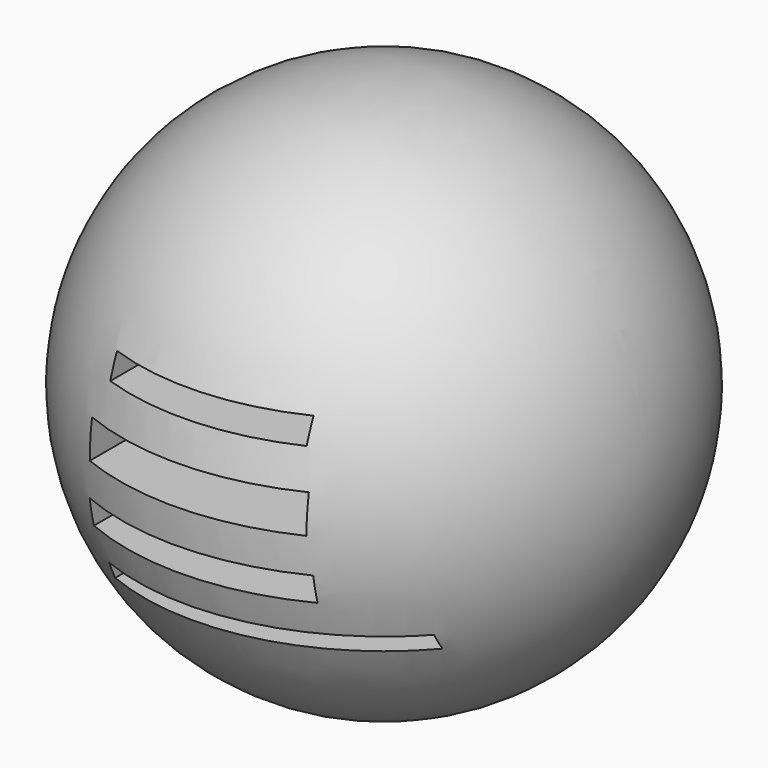
from build123d import *

# Parameters (mm, degrees)
F2_W      = 1.825324
F2_H      = 15.819468
F3_DEPTH  = 50.8
F4_W      = 2.966151
F4_H      = 21.295437
F5_DEPTH  = 50.8
F6_W      = 1.630356
F6_H      = 20.682175
F7_DEPTH  = 50.8
F8_W      = 1.825323
F8_H      = 19.774335
F9_DEPTH  = 50.8
F10_W     = 17.340573
F10_H     = 2.129544
F11_DEPTH = 50.8
F12_W     = 19.470113
F12_H     = 3.422481
F13_DEPTH = 50.8
F14_W     = 20.078553
F14_H     = 2.433764
F15_DEPTH = 50.8
F16_W     = 25.250305
F16_H     = 1.521244
F17_DEPTH = 50.8


with BuildPart() as f1:
    # F0 (on Front) → F1 (revolve)
    with BuildSketch(Plane.XZ):
        with BuildLine():
            Line((-24.29125, 0), (24.29125, 0))
            ThreePointArc((24.29125, 0), (0, 24.29125), (-24.29125, 0))
        make_face()
    revolve(axis=Axis((0, 0, 0), (1, 0, 0)))

    # F2 (on Front) → F3 (cut)
    with BuildSketch(Plane.XZ):
        with Locations((-7.073127, -3.878812)):
            Rectangle(F2_W, F2_H)
    extrude(amount=-F3_DEPTH, mode=Mode.SUBTRACT)

    # F4 (on Front) → F5 (cut)
    with BuildSketch(Plane.XZ):
        with Locations((1.483075, -3.270371)):
            Rectangle(F4_W, F4_H)
    extrude(amount=-F5_DEPTH, mode=Mode.SUBTRACT)

    # F6 (on Front) → F7 (cut)
    with BuildSketch(Plane.XZ):
        with Locations((-3.491047, -3.679285)):
            Rectangle(F6_W, F6_H)
    extrude(amount=-F7_DEPTH, mode=Mode.SUBTRACT)

    # F8 (on Front) → F9 (cut)
    with BuildSketch(Plane.XZ):
        with Locations((8.44212, -3.726701)):
            Rectangle(F8_W, F8_H)
    extrude(amount=-F9_DEPTH, mode=Mode.SUBTRACT)

    # F10 (on Front) → F11 (cut)
    with BuildSketch(Plane.XZ):
        with Locations((1.140828, 7.833679)):
            Rectangle(F10_W, F10_H)
    extrude(amount=F11_DEPTH, mode=Mode.SUBTRACT)

    # F12 (on Front) → F13 (cut)
    with BuildSketch(Plane.XZ):
        with Locations((0.684495, 1.71124)):
            Rectangle(F12_W, F12_H)
    extrude(amount=F13_DEPTH, mode=Mode.SUBTRACT)

    # F14 (on Front) → F15 (cut)
    with BuildSketch(Plane.XZ):
        with Locations((0.684496, -4.487253)):
            Rectangle(F14_W, F14_H)
    extrude(amount=F15_DEPTH, mode=Mode.SUBTRACT)

    # F16 (on Front) → F17 (cut)
    with BuildSketch(Plane.XZ):
        with Locations((4.183032, -9.41451)):
            Rectangle(F16_W, F16_H)
    extrude(amount=F17_DEPTH, mode=Mode.SUBTRACT)


solid = f1.part
